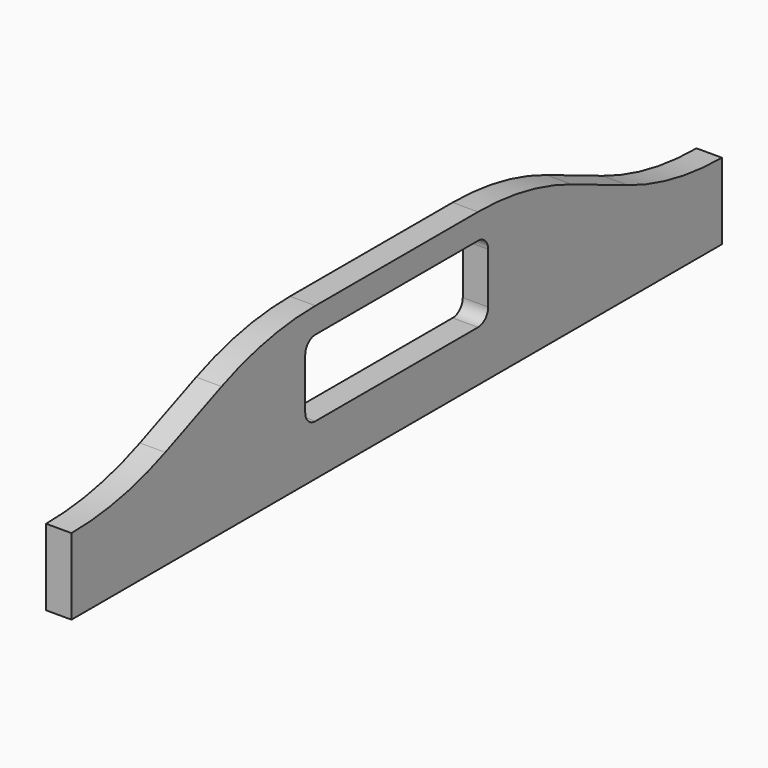
from build123d import *

# Parameters (mm, degrees)
F0_W     = 406.4
F0_H     = 76.2
F1_DEPTH = 12.7
F3_DEPTH = 62.484
F5_DEPTH = 38.608


with BuildPart() as f1:
    # F0 (on Right) → F1 (new body)
    with BuildSketch(Plane.YZ):
        Rectangle(F0_W, F0_H)
    extrude(amount=F1_DEPTH)

    # F2 (on face) → F3 (cut)
    with BuildSketch(Plane.YZ.offset(12.7)):
        with BuildLine():
            Line((50.8, 25.4), (-50.8, 25.4))
            ThreePointArc((-50.8, 25.4), (-55.290128, 23.540128), (-57.15, 19.05))
            Line((-57.15, 19.05), (-57.15, -6.35))
            ThreePointArc((-57.15, -6.35), (-55.290128, -10.840128), (-50.8, -12.7))
            Line((-50.8, -12.7), (50.8, -12.7))
            ThreePointArc((50.8, -12.7), (55.290128, -10.840128), (57.15, -6.35))
            Line((57.15, -6.35), (57.15, 19.05))
            ThreePointArc((57.15, 19.05), (55.290128, 23.540128), (50.8, 25.4))
        make_face()
    extrude(amount=-F3_DEPTH, mode=Mode.SUBTRACT)

    # F4 (on face) → F5 (cut)
    with BuildSketch(Plane.YZ.offset(12.7)):
        with BuildLine():
            Line((-203.2, 38.1), (-203.2, 0))
            ThreePointArc((-203.2, 0), (-173.311901, 2.959505), (-144.584615, 11.723077))
            Line((-144.584615, 11.723077), (-109.415385, 26.376923))
            ThreePointArc((-109.415385, 26.376923), (-80.688099, 35.140495), (-50.8, 38.1))
            Line((-50.8, 38.1), (-203.2, 38.1))
        make_face()
        with BuildLine():
            Line((109.415385, 26.376923), (144.584615, 11.723077))
            ThreePointArc((144.584615, 11.723077), (173.311901, 2.959505), (203.2, 0))
            Line((203.2, 0), (203.2, 38.1))
            Line((203.2, 38.1), (50.8, 38.1))
            ThreePointArc((50.8, 38.1), (80.688099, 35.140495), (109.415385, 26.376923))
        make_face()
    extrude(amount=-F5_DEPTH, mode=Mode.SUBTRACT)


solid = f1.part
